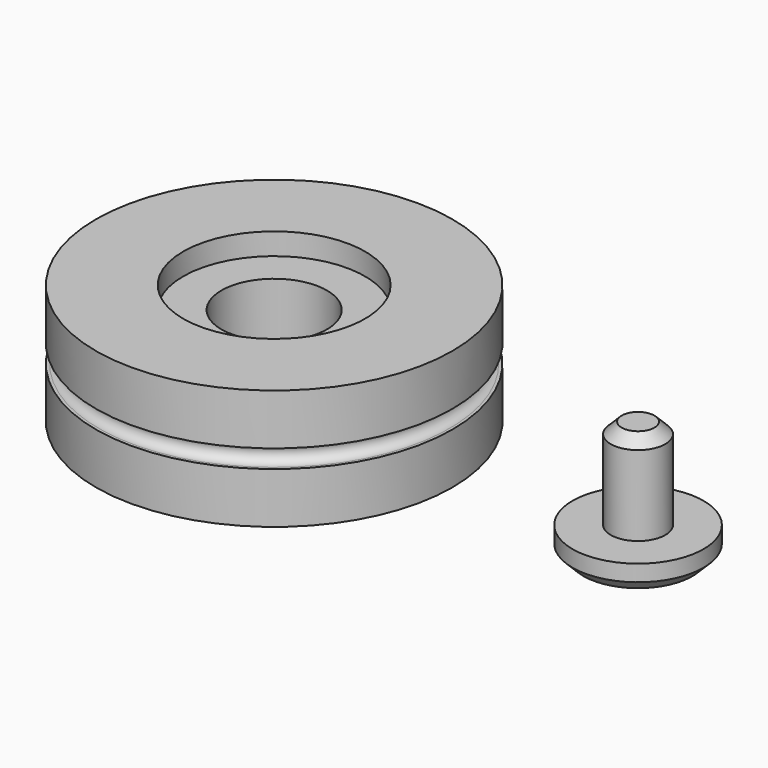
from build123d import *

# Parameters (mm, degrees)
F4_SIZE = 0.762


with BuildPart() as f2:
    # F0 (on Front) → F2 (revolve)
    with BuildSketch(Plane.XZ):
        with BuildLine():
            Line((-12.446, 0), (-3.683, 0))
            Line((-3.683, 0), (-3.683, 6.858))
            Line((-3.683, 6.858), (-6.35, 6.858))
            Line((-6.35, 6.858), (-6.35, 8.382))
            Line((-6.35, 8.382), (-12.446, 8.382))
            Line((-12.446, 8.382), (-12.446, 4.826))
            Line((-12.446, 4.826), (-12.2428, 4.826))
            ThreePointArc((-12.2428, 4.826), (-11.6078, 4.191), (-12.2428, 3.556))
            Line((-12.2428, 3.556), (-12.446, 3.556))
            Line((-12.446, 3.556), (-12.446, 0))
        make_face()
    revolve(axis=Axis((0, 0, 8.2818850817), (0, 0, 1)))


with BuildPart() as f3:
    # F1 (on Front) → F3 (revolve)
    with BuildSketch(Plane.XZ):
        Polygon((20.828, 1.905), (20.828, 0), (25.4, 0), (25.4, 8.255), (23.495, 8.255), (23.495, 1.905), align=None)
    revolve(axis=Axis((25.4, 0, 4.1275), (0, 0, 1)))

    # F4
    f4_edges = [f3.edges().sort_by_distance(p)[0] for p in [
        (27.305, 0, 8.255),
        (29.972, 0, 0),
    ]]
    chamfer(f4_edges, length=F4_SIZE)


solid = Compound([f2.part, f3.part])
